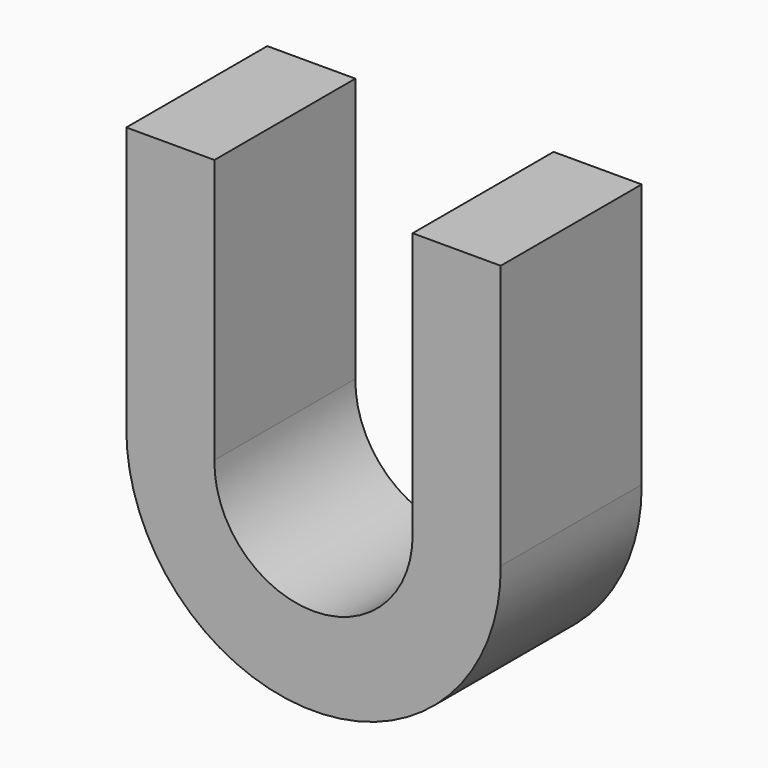
from build123d import *

# Parameters (mm, degrees)
F1_DEPTH = 25.4


with BuildPart() as f1:
    # F0 (on Front) → F1 (new body)
    with BuildSketch(Plane.XZ):
        with BuildLine():
            ThreePointArc((14.285613, 0.232226), (0, -14.2875), (-14.285613, 0.232226))
            Line((-14.285613, 0.232226), (-14.285613, 38.332226))
            Line((-14.285613, 38.332226), (-26.986805, 38.332226))
            Line((-26.986805, 38.332226), (-26.986805, 0.232226))
            ThreePointArc((-26.986805, 0.232226), (0, -26.94898), (26.986805, 0.232226))
            Line((26.986805, 0.232226), (26.988195, 0.232226))
            Line((26.988195, 0.232226), (26.988195, 38.332226))
            Line((26.988195, 38.332226), (14.289387, 38.332226))
            Line((14.289387, 38.332226), (14.289387, 0.232226))
            Line((14.289387, 0.232226), (14.285613, 0.232226))
        make_face()
        with BuildLine():
            ThreePointArc((14.285613, 0.232226), (0, -14.2875), (-14.285613, 0.232226))
            Line((-14.285613, 0.232226), (-14.285613, 38.332226))
            Line((-14.285613, 38.332226), (-26.986805, 38.332226))
            Line((-26.986805, 38.332226), (-26.986805, 0.232226))
            ThreePointArc((-26.986805, 0.232226), (0, -26.94898), (26.986805, 0.232226))
            Line((26.986805, 0.232226), (26.988195, 0.232226))
            Line((26.988195, 0.232226), (26.988195, 38.332226))
            Line((26.988195, 38.332226), (14.289387, 38.332226))
            Line((14.289387, 38.332226), (14.289387, 0.232226))
            Line((14.289387, 0.232226), (14.285613, 0.232226))
        make_face()
        with BuildLine():
            ThreePointArc((14.285613, 0.232226), (0, -14.2875), (-14.285613, 0.232226))
            Line((-14.285613, 0.232226), (-14.285613, 38.332226))
            Line((-14.285613, 38.332226), (-26.986805, 38.332226))
            Line((-26.986805, 38.332226), (-26.986805, 0.232226))
            ThreePointArc((-26.986805, 0.232226), (0, -26.94898), (26.986805, 0.232226))
            Line((26.986805, 0.232226), (26.988195, 0.232226))
            Line((26.988195, 0.232226), (26.988195, 38.332226))
            Line((26.988195, 38.332226), (14.289387, 38.332226))
            Line((14.289387, 38.332226), (14.289387, 0.232226))
            Line((14.289387, 0.232226), (14.285613, 0.232226))
        make_face()
    extrude(amount=F1_DEPTH)


solid = f1.part
